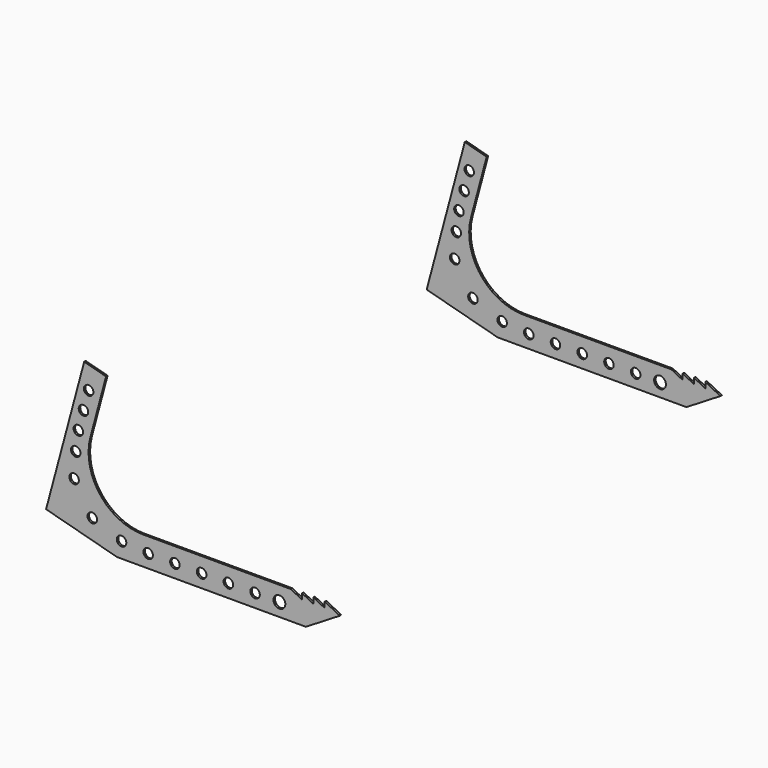
from build123d import *

# Parameters (mm, degrees)
SKETCH_R      = 19.8755
SKETCH_R_2    = 16.002
PAD_DEPTH     = 6.35
ARRAY_Y_COUNT = 2
ARRAY_Y_PITCH = 1600.2


with BuildPart() as part:
    # Sketch → Pad (new body)
    with BuildSketch(Plane.XZ):
        with BuildLine():
            Line((165.1, 0), (800.1, 0))
            Line((800.1, 0), (914.4, 69.85))
            Line((914.4, 69.85), (863.6, 95.25))
            Line((863.6, 95.25), (863.6, 76.2))
            Line((863.6, 76.2), (825.5, 95.25))
            Line((825.5, 95.25), (825.5, 76.2))
            Line((825.5, 76.2), (787.4, 95.25))
            Line((787.4, 95.25), (787.4, 76.2))
            Line((787.4, 76.2), (749.3, 95.25))
            Line((749.3, 95.25), (252.957343, 95.25))
            ThreePointArc((75.601043, 326.385346), (107.287507, 167.086435), (252.957343, 95.25))
            Line((75.601043, 326.385346), (108.471062, 449.057925))
            Line((128.193073, 522.661473), (108.471062, 449.057925))
            Line((54.589525, 542.383485), (128.193073, 522.661473))
            Line((34.867514, 468.779937), (54.589525, 542.383485))
            Line((34.867514, 468.779937), (-53.881537, 137.563971))
            Line((-73.603548, 63.960423), (-53.881537, 137.563971))
            Line((-73.603548, 63.960423), (0, 44.238412))
            Line((165.1, 0), (0, 44.238412))
        make_face()
        with Locations((711.2, 44.45)):
            Circle(SKETCH_R, mode=Mode.SUBTRACT)
        with Locations((69.526342, 462.367859)):
            Circle(SKETCH_R_2, mode=Mode.SUBTRACT)
        with Locations((52.170841, 397.596245)):
            Circle(SKETCH_R_2, mode=Mode.SUBTRACT)
        with Locations((34.815339, 332.82463)):
            Circle(SKETCH_R_2, mode=Mode.SUBTRACT)
        with Locations((25.99172, 267.608765)):
            Circle(SKETCH_R_2, mode=Mode.SUBTRACT)
        with Locations((20.645386, 185.122543)):
            Circle(SKETCH_R_2, mode=Mode.SUBTRACT)
        with Locations((629.362915, 44.45)):
            Circle(SKETCH_R_2, mode=Mode.SUBTRACT)
        with Locations((539.477036, 44.45)):
            Circle(SKETCH_R_2, mode=Mode.SUBTRACT)
        with Locations((449.591157, 44.45)):
            Circle(SKETCH_R_2, mode=Mode.SUBTRACT)
        with Locations((359.705277, 44.45)):
            Circle(SKETCH_R_2, mode=Mode.SUBTRACT)
        with Locations((269.819398, 44.45)):
            Circle(SKETCH_R_2, mode=Mode.SUBTRACT)
        with Locations((180.2592, 52.094743)):
            Circle(SKETCH_R_2, mode=Mode.SUBTRACT)
        with Locations((81.817619, 88.932823)):
            Circle(SKETCH_R_2, mode=Mode.SUBTRACT)
    extrude(amount=PAD_DEPTH)

    # Array Y: part ×2


with BuildPart() as part_1:
    add(part.part)
    with Locations(*[(0, i * ARRAY_Y_PITCH, 0) for i in range(1, ARRAY_Y_COUNT)]):
        add(part.part)


solid = part_1.part
